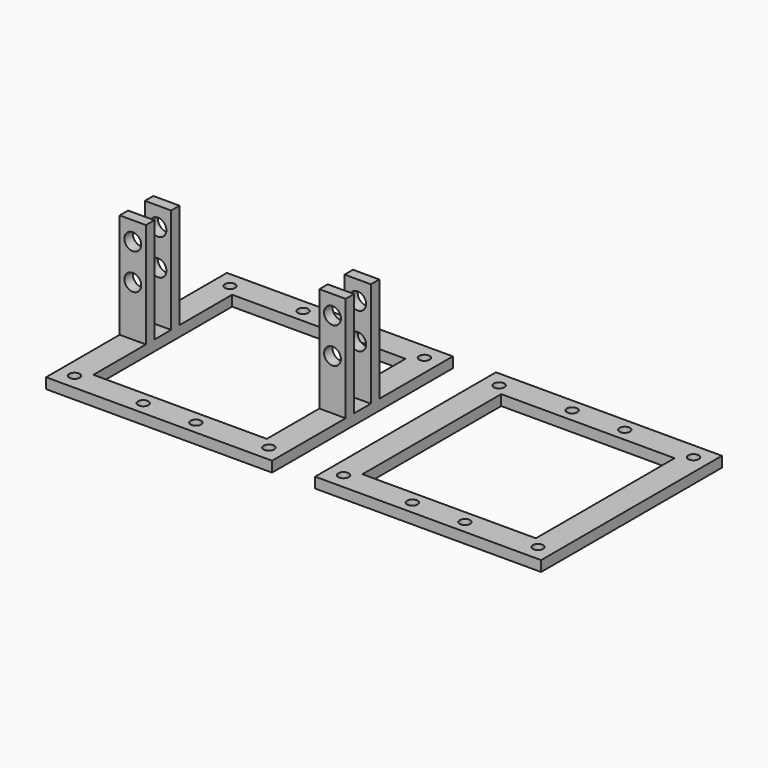
from build123d import *

# Parameters (mm, degrees)
F0_W     = 43
F0_H     = 43
F0_R     = 1
F0_W_2   = 33
F0_H_2   = 33
F1_DEPTH = 2
F3_W     = 2
F3_H     = 20
F4_DEPTH = 21.5
F5_W     = 33
F5_H     = 33
F6_DEPTH = 25
F7_R     = 1.6
F8_DEPTH = 25


with BuildPart() as f1:
    # F0 (on Top) → F1 (new body)
    with BuildSketch(Plane.XY):
        Rectangle(F0_W, F0_H)
        with Locations((-18.5, -18.5)):
            Circle(F0_R, mode=Mode.SUBTRACT)
        with Locations((-5, -19)):
            Circle(F0_R, mode=Mode.SUBTRACT)
        with Locations((5, -19)):
            Circle(F0_R, mode=Mode.SUBTRACT)
        with Locations((18.5, -18.5)):
            Circle(F0_R, mode=Mode.SUBTRACT)
        with Locations((-18.5, 18.5)):
            Circle(F0_R, mode=Mode.SUBTRACT)
        with Locations((-5, 19)):
            Circle(F0_R, mode=Mode.SUBTRACT)
        Rectangle(F0_W_2, F0_H_2, mode=Mode.SUBTRACT)
        with Locations((5, 19)):
            Circle(F0_R, mode=Mode.SUBTRACT)
        with Locations((18.5, 18.5)):
            Circle(F0_R, mode=Mode.SUBTRACT)
    extrude(amount=F1_DEPTH)


with BuildPart() as f2_1:
    # F2: copy of F1
    add(f1.part.moved(Location((51.2, 0, 0))))


with BuildPart() as f1_1:
    add(f1.part)

    # F3 (on Right) → F4 (join, symmetric)
    with BuildSketch(Plane.YZ):
        with Locations((3, 12)):
            Rectangle(F3_W, F3_H)
        with Locations((-3, 12)):
            Rectangle(F3_W, F3_H)
    extrude(amount=F4_DEPTH, both=True)

    # F5 (on face) → F6 (cut)
    with BuildSketch(Plane(origin=(0, 0, 0), x_dir=(1, 0, 0), z_dir=(0, 0, -1))):
        Rectangle(F5_W, F5_H)
    extrude(amount=-F6_DEPTH, mode=Mode.SUBTRACT)

    # F7 (on face) → F8 (cut)
    with BuildSketch(Plane(origin=(0, 4, 0), x_dir=(-1, 0, 0), z_dir=(0, 1, 0))):
        with Locations((-19, 18.4)):
            Circle(F7_R)
        with Locations((-19, 11.6)):
            Circle(F7_R)
        with Locations((19, 18.4)):
            Circle(F7_R)
        with Locations((19, 11.6)):
            Circle(F7_R)
    extrude(amount=-F8_DEPTH, mode=Mode.SUBTRACT)


solid = Compound([f2_1.part, f1_1.part])
